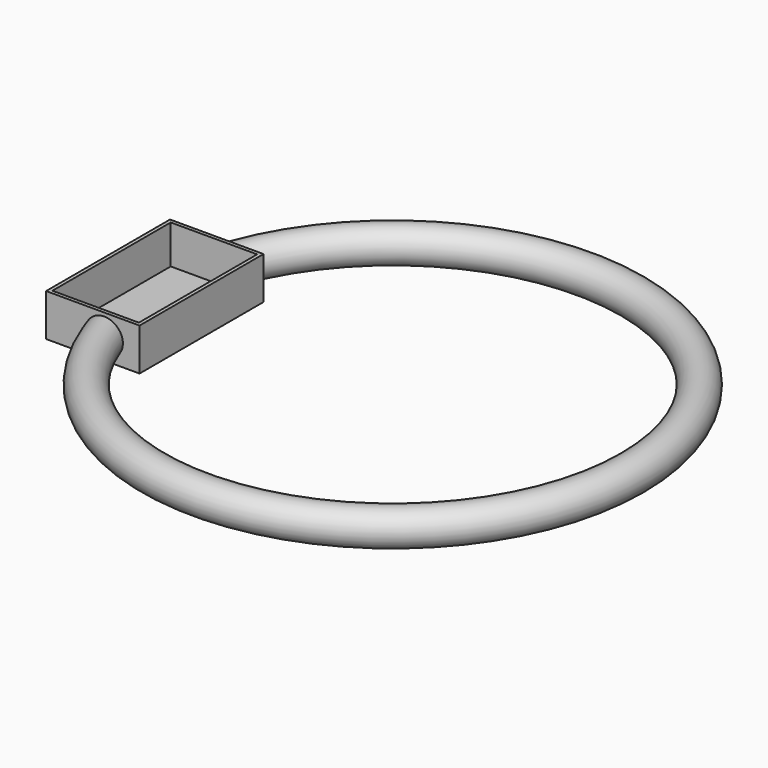
from build123d import *

# Parameters (mm, degrees)
F0_R     = 12.5
F0_R_2   = 6
F2_W     = 40.85055
F2_H     = 110
F2_W_2   = 17.295763
F2_W_3   = 8.628652
F3_DEPTH = 12.5
F4_W     = 40.85055
F4_H     = 110
F4_W_2   = 16.884954
F4_W_3   = 8.628652
F5_DEPTH = 15
F6_W     = 61.364156
F6_H     = 105
F7_DEPTH = 27.5


with BuildPart() as f1:
    # F0 (on Front) → F1 (revolve)
    with BuildSketch(Plane.XZ):
        with Locations((-170, 0)):
            Circle(F0_R)
        with Locations((-170, 0)):
            Circle(F0_R_2, mode=Mode.SUBTRACT)
    revolve(axis=Axis((0, 0, 0), (0, 0, -1)))

    # F2 (on Top) → F3 (cut, symmetric)
    with BuildSketch(Plane.XY):
        with Locations((-164.398134, 0)):
            Rectangle(F2_W, F2_H)
        with Locations((-193.471291, 0)):
            Rectangle(F2_W_2, F2_H)
        with Locations((-139.658533, 0)):
            Rectangle(F2_W_3, F2_H)
    extrude(amount=F3_DEPTH, both=True, mode=Mode.SUBTRACT)

    # F4 (on Top) → F5 (join, symmetric)
    with BuildSketch(Plane.XY):
        with Locations((-164.808943, 0)):
            Rectangle(F4_W, F4_H)
        with Locations((-193.676695, 0)):
            Rectangle(F4_W_2, F4_H)
        with Locations((-140.069342, 0)):
            Rectangle(F4_W_3, F4_H)
    extrude(amount=F5_DEPTH, both=True)

    # F6 (on face) → F7 (cut)
    with BuildSketch(Plane.XY.offset(15)):
        with Locations((-168.937094, 0)):
            Rectangle(F6_W, F6_H)
    extrude(amount=-F7_DEPTH, mode=Mode.SUBTRACT)


solid = f1.part
